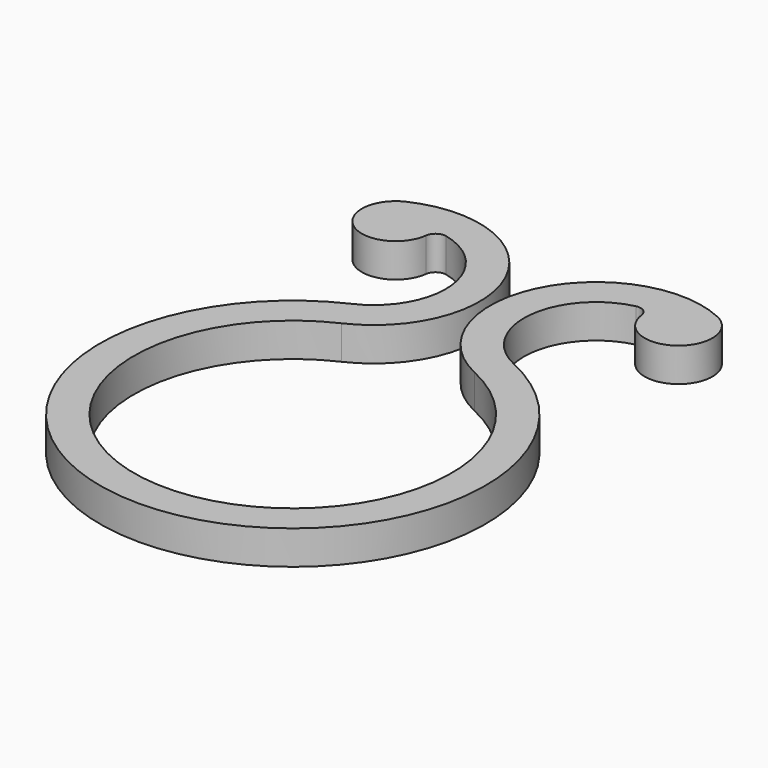
from build123d import *

# Parameters (mm, degrees)
F2_DEPTH = 1.6
F3_R     = 0.5


with BuildPart() as f2:
    # F1 (on Top) → F2 (new body)
    with BuildSketch(Plane.XY):
        with BuildLine():
            ThreePointArc((3.15, 6.806431), (0, -7.5), (-3.15, 6.806431))
            ThreePointArc((-3.15, 6.806431), (-0.712379, 13.444051), (-7.35, 15.881672))
            ThreePointArc((-7.35, 15.881672), (-7.403636, 13.003641), (-5.108611, 14.74111))
            ThreePointArc((-5.108611, 14.74111), (-1.915048, 12.00594), (-3.822, 8.258469))
            ThreePointArc((-3.822, 8.258469), (0, -9.1), (3.822, 8.258469))
            ThreePointArc((3.822, 8.258469), (1.915048, 12.00594), (5.108611, 14.74111))
            ThreePointArc((5.108611, 14.74111), (7.403636, 13.003641), (7.35, 15.881672))
            ThreePointArc((7.35, 15.881672), (0.712379, 13.444051), (3.15, 6.806431))
        make_face()
    extrude(amount=F2_DEPTH)

    # F3
    f3_edges = [f2.edges().sort_by_distance(p)[0] for p in [
        (5.108611, 14.74111, 0.8),
        (-5.108611, 14.74111, 0.8),
    ]]
    fillet(f3_edges, radius=F3_R)


solid = f2.part
